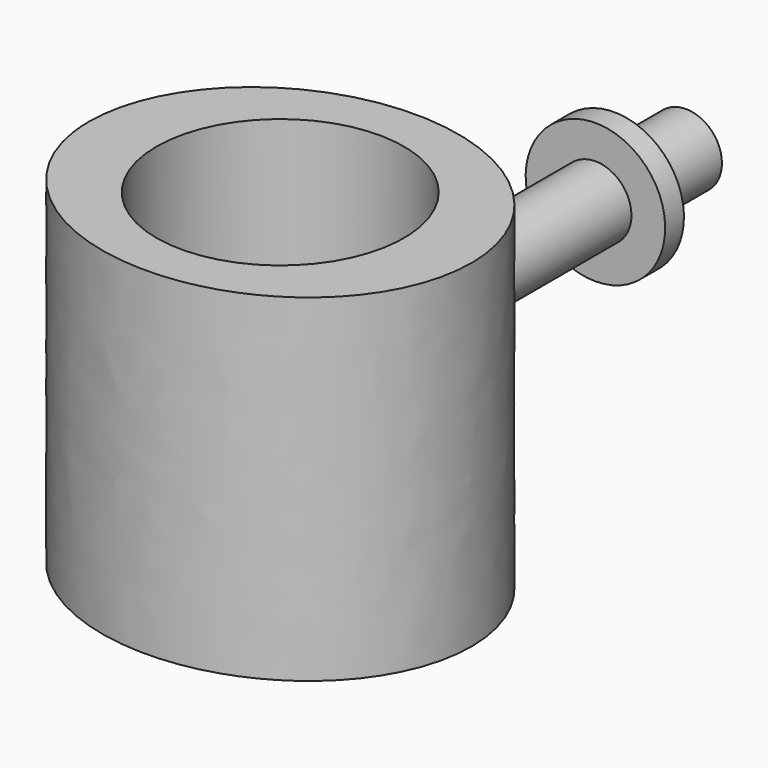
from build123d import *

# Parameters (mm, degrees)
CIRCLE_R                   = 11
EXTRUDE001_DEPTH           = 30
EXTRUDE001_PLACEMENT_ANGLE = 180
EXTRUDE_DEPTH              = 30
EXTRUDE_PLACEMENT_ANGLE    = 180
REVOLVE_PLACEMENT_ANGLE    = 270


with BuildPart() as extrude001:
    # Circle → Extrude001 (new body)
    with BuildSketch(Plane.XY):
        Circle(CIRCLE_R)
    extrude(amount=EXTRUDE001_DEPTH)


with BuildPart() as extrude001_1:
    # Extrude001 placement: moved
    add(extrude001.part.rotate(Axis((0, 0, 0), (0, 1, 0)), EXTRUDE001_PLACEMENT_ANGLE))


with BuildPart() as cut001:
    # Ellipse → Extrude (new body)
    with BuildSketch(Plane.XY):
        with BuildLine():
            add(Edge.make_bspline(
                [(17, 0), (17, 25.980762), (-8.5, 12.990381), (-34, 0), (-8.5, -12.990381), (17, -25.980762), (17, 0)],
                knots=[0, 0, 0, 2.094395, 2.094395, 4.18879, 4.18879, 6.283185, 6.283185, 6.283185], degree=2, weights=[1, 0.5, 1, 0.5, 1, 0.5, 1]))
        make_face()
    extrude(amount=EXTRUDE_DEPTH)


with BuildPart() as cut001_1:
    # Extrude placement: moved
    add(cut001.part.rotate(Axis((0, 0, 0), (0, 1, 0)), EXTRUDE_PLACEMENT_ANGLE))

    # Cut001: cut Extrude001
    add(extrude001_1.part, mode=Mode.SUBTRACT)


with BuildPart() as body:
    # Sketch → Revolve (revolve)
    with BuildSketch(Plane(origin=(-15, 0, -30), x_dir=(1, 0, 0), z_dir=(0, -1, 0))):
        Polygon((-20, 11.8), (0, 11.8), (0, 15), (-30.051914, 15), (-30.051914, 11.8), (-22.082848, 11.8), (-22.082848, 8.8), (-20, 8.8), align=None)
    revolve(axis=Axis((-45.051914, 0, -15), (-1, 0, 0)))


with BuildPart() as body_1:
    # Revolve placement: moved
    add(body.part.rotate(Axis((0, 0, 0), (0, 0, 1)), REVOLVE_PLACEMENT_ANGLE))

    # Fusion: union Cut001
    add(cut001_1.part)


solid = body_1.part
